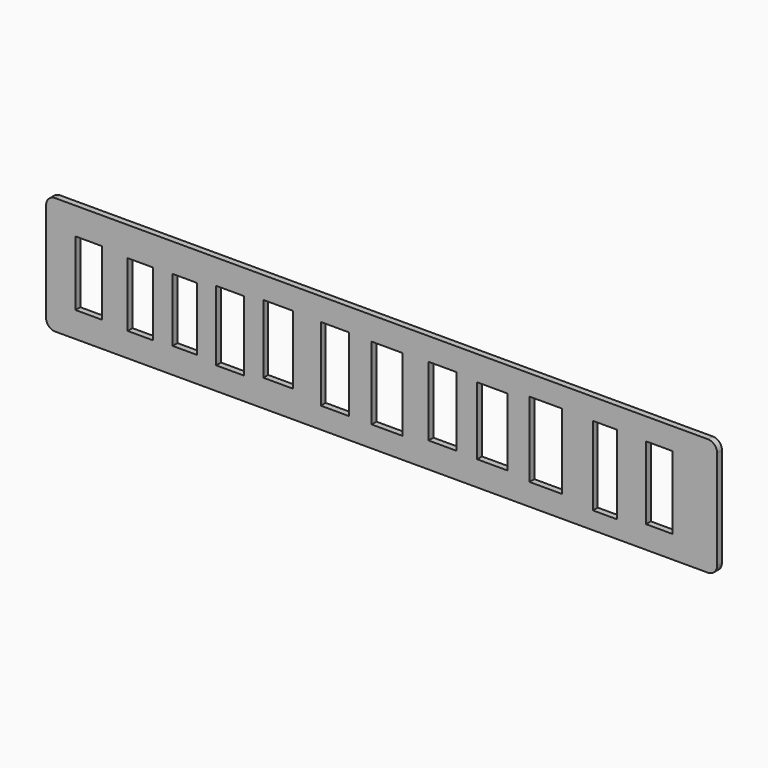
from build123d import *

# Parameters (mm, degrees)
F0_W     = 221
F0_H     = 38.7
F0_W_2   = 8.738756
F0_H_2   = 21.355933
F0_W_3   = 8.261301
F0_H_3   = 21.115657
F0_W_4   = 8.018416
F0_H_4   = 20.872929
F0_W_5   = 9.23308
F0_H_5   = 23.057354
F0_W_6   = 9.233392
F0_H_6   = 24.270837
F0_W_7   = 10.204611
F0_H_7   = 24.028264
F0_W_8   = 9.961355
F0_H_8   = 22.329358
F0_W_9   = 8.019723
F0_H_9   = 25.969558
F0_W_10  = 9.718599
F0_H_10  = 22.572022
F0_W_11  = 9.233017
F0_H_11  = 22.814657
F0_W_12  = 10.690443
F0_H_12  = 24.756417
F0_W_13  = 8.747689
F0_H_13  = 24.028078
F1_DEPTH = 2
F2_R     = 3


with BuildPart() as f1:
    # F0 (on Front) → F1 (new body)
    with BuildSketch(Plane.XZ):
        Rectangle(F0_W, F0_H)
        with Locations((-96.462831, -0.242681)):
            Rectangle(F0_W_2, F0_H_2, mode=Mode.SUBTRACT)
        with Locations((-79.486135, -0.847662)):
            Rectangle(F0_W_3, F0_H_3, mode=Mode.SUBTRACT)
        with Locations((-64.795578, -0.485494)):
            Rectangle(F0_W_4, F0_H_4, mode=Mode.SUBTRACT)
        with Locations((-49.862139, -0.366054)):
            Rectangle(F0_W_5, F0_H_5, mode=Mode.SUBTRACT)
        with Locations((-15.381633, -0.249112)):
            Rectangle(F0_W_6, F0_H_6, mode=Mode.SUBTRACT)
        with Locations((1.858666, -0.372663)):
            Rectangle(F0_W_7, F0_H_7, mode=Mode.SUBTRACT)
        with Locations((36.460521, -0.01304)):
            Rectangle(F0_W_8, F0_H_8, mode=Mode.SUBTRACT)
        with Locations((73.61224, -0.624529)):
            Rectangle(F0_W_9, F0_H_9, mode=Mode.SUBTRACT)
        with Locations((-34.079104, 0.845412)):
            Rectangle(F0_W_10, F0_H_10, mode=Mode.SUBTRACT)
        with Locations((20.07, 0.474448)):
            Rectangle(F0_W_11, F0_H_11, mode=Mode.SUBTRACT)
        with Locations((54.064955, 0.227407)):
            Rectangle(F0_W_12, F0_H_12, mode=Mode.SUBTRACT)
        with Locations((91.459367, 0.10128)):
            Rectangle(F0_W_13, F0_H_13, mode=Mode.SUBTRACT)
    extrude(amount=-F1_DEPTH)

    # F2
    f2_edges = [f1.edges().sort_by_distance(p)[0] for p in [
        (-110.5, 1, 19.35),
        (110.5, 1, 19.35),
        (110.5, 1, -19.35),
        (-110.5, 1, -19.35),
    ]]
    fillet(f2_edges, radius=F2_R)


solid = f1.part
